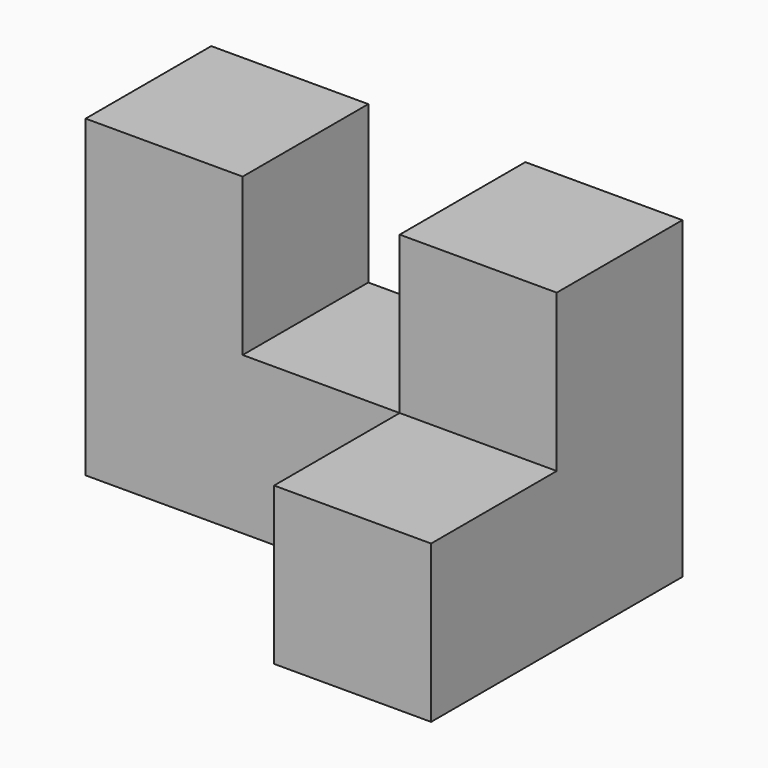
from build123d import *

# Parameters (mm, degrees)
F0_W     = 57.15
F0_H     = 19.05
F1_DEPTH = 19.05
F2_W     = 19.05
F2_H     = 19.05
F3_DEPTH = 19.05
F4_W     = 19.05
F4_H     = 19.05
F5_DEPTH = 19.05


with BuildPart() as f1:
    # F0 (on Top) → F1 (new body)
    with BuildSketch(Plane.XY):
        Rectangle(F0_W, F0_H)
    extrude(amount=F1_DEPTH)

    # F2 (on face) → F3 (join)
    with BuildSketch(Plane.XY.offset(19.05)):
        with Locations((-19.05, 0)):
            Rectangle(F2_W, F2_H)
        with Locations((19.05, 0)):
            Rectangle(F2_W, F2_H)
    extrude(amount=F3_DEPTH)

    # F4 (on face) → F5 (join)
    with BuildSketch(Plane.XZ.offset(9.525)):
        with Locations((19.05, 9.525)):
            Rectangle(F4_W, F4_H)
    extrude(amount=F5_DEPTH)


solid = f1.part
